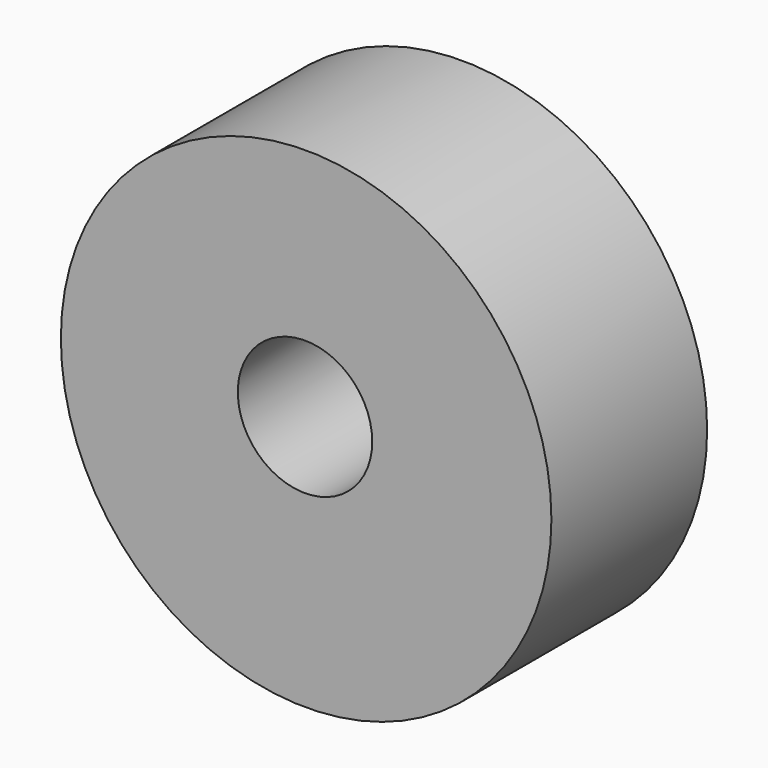
from build123d import *

# Parameters (mm, degrees)
F0_R       = 62.7458687881
F1_DEPTH   = 49.8
F2_R       = 17.1925979278
F1_FACE1_R = 62.7458687881
F3_DEPTH   = 57.8


with BuildPart() as f1:
    # F0 (on Front) → F1 (new body)
    with BuildSketch(Plane.XZ):
        with Locations((-7.4413628317, 7.3963827454)):
            Circle(F0_R)
    extrude(amount=F1_DEPTH)

    # F2 (on face) + F1_face1 (on face) → F3 (cut)
    with BuildSketch(Plane.XZ.offset(49.8)):
        with Locations((-7.7259051614, 10.0301206112)):
            Circle(F2_R)
    with BuildSketch(Plane(origin=(-7.4413628317, 0, 7.3963827454), x_dir=(1, 0, 0), z_dir=(0, 1, 0))):
        Circle(F1_FACE1_R)
    extrude(amount=-F3_DEPTH, dir=(0, -1, 0), mode=Mode.SUBTRACT)


solid = f1.part
